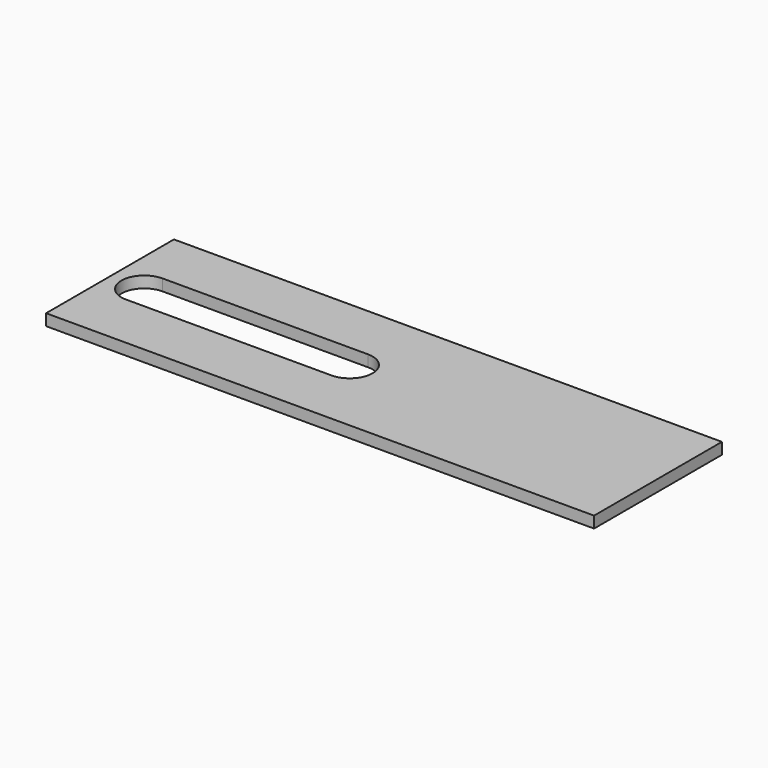
from build123d import *

# Parameters (mm, degrees)
F0_W     = 304.8
F0_H     = 88.9
F1_DEPTH = 6.35


with BuildPart() as f1:
    # F0 (on Top) → F1 (new body)
    with BuildSketch(Plane.XY):
        Rectangle(F0_W, F0_H)
        with BuildLine():
            ThreePointArc((-133.35, -12.7), (-146.05, 0), (-133.35, 12.7))
            Line((-133.35, 12.7), (-19.05, 12.7))
            ThreePointArc((-19.05, 12.7), (-6.35, 0), (-19.05, -12.7))
            Line((-19.05, -12.7), (-133.35, -12.7))
        make_face(mode=Mode.SUBTRACT)
    extrude(amount=F1_DEPTH)


solid = f1.part
